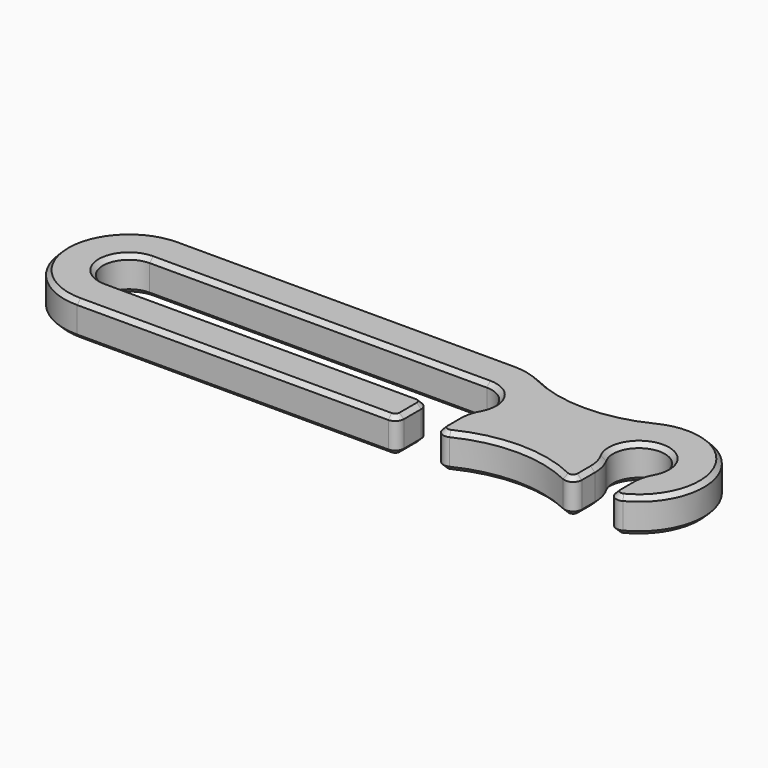
from build123d import *

# Parameters (mm, degrees)
F1_DEPTH = 4
F2_R     = 5
F3_R     = 1
F4_SIZE  = 0.5


with BuildPart() as f1:
    # F0 (on Top) → F1 (new body)
    with BuildSketch(Plane.XY):
        with BuildLine():
            ThreePointArc((0, 3), (2.802517, 1.070466), (2, -2.236068))
            Line((2, -2.236068), (2, -7.228416))
            ThreePointArc((2, -7.228416), (2.678825, -7.005276), (3.333333, -6.718548))
            ThreePointArc((3.333333, -6.718548), (10, -5.155644), (16.666667, -6.718548))
            ThreePointArc((16.666667, -6.718548), (17.321175, -7.005276), (18, -7.228416))
            Line((18, -7.228416), (18, -2.236068))
            ThreePointArc((18, -2.236068), (20, 3), (22, -2.236068))
            Line((22, -2.236068), (22, -7.228416))
            ThreePointArc((22, -7.228416), (27.005276, 2.678825), (16.666667, 6.718548))
            ThreePointArc((16.666667, 6.718548), (10, 5.155644), (3.333333, 6.718548))
            ThreePointArc((3.333333, 6.718548), (1.711854, 7.302024), (0, 7.5))
            Line((0, 7.5), (-39, 7.5))
            ThreePointArc((-39, 7.5), (-46.5, 0), (-39, -7.5))
            Line((-39, -7.5), (-2, -7.5))
            Line((-2, -7.5), (-2, -3))
            Line((-2, -3), (-39, -3))
            ThreePointArc((-39, -3), (-42, 0), (-39, 3))
            Line((-39, 3), (0, 3))
        make_face()
    extrude(amount=F1_DEPTH)

    # F2
    f2_edges = [f1.edges().sort_by_distance(p)[0] for p in [
        (2, -2.236068, 2),
        (18, -2.236068, 2),
        (22, -2.236068, 2),
    ]]
    fillet(f2_edges, radius=F2_R)

    # F3
    f3_edges = [f1.edges().sort_by_distance(p)[0] for p in [
        (-2, -3, 2),
        (2, -7.228416, 2),
        (-2, -7.5, 2),
        (18, -7.228416, 2),
        (22, -7.228416, 2),
    ]]
    fillet(f3_edges, radius=F3_R)

    # F4
    f4_edges = [f1.edges().sort_by_distance(p)[0] for p in [
        (-21, -7.5, 4),
        (-21, -7.5, 0),
    ]]
    chamfer(f4_edges, length=F4_SIZE)


solid = f1.part
